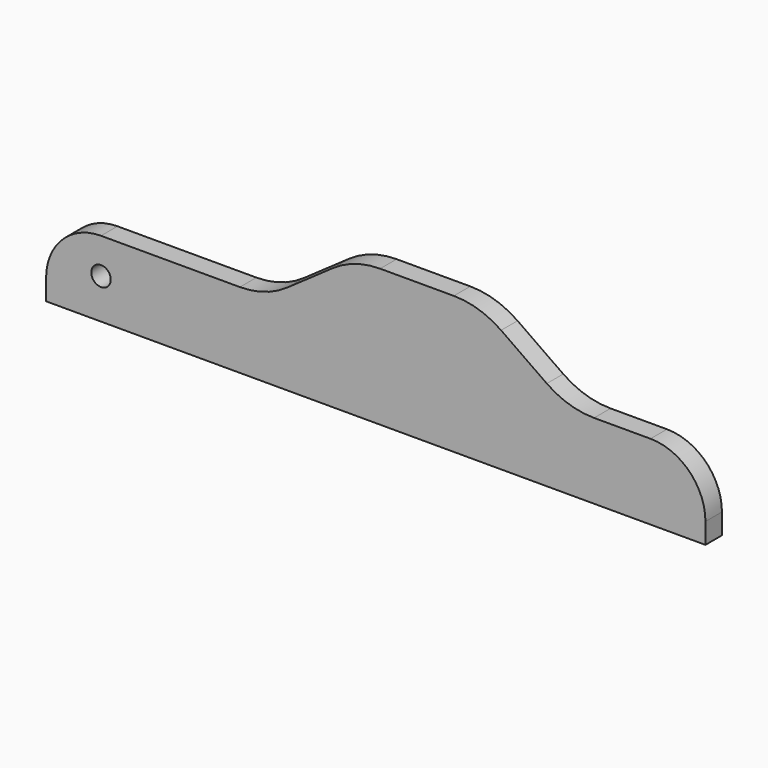
from build123d import *

# Parameters (mm, degrees)
F1_DEPTH = 19.05
F2_R     = 76.2
F3_R     = 50.8
F4_R     = 8.994508
F5_DEPTH = 25.4


with BuildPart() as f1:
    # F0 (on Front) → F1 (new body)
    with BuildSketch(Plane.XZ):
        Polygon((-342.9, 69.85), (-342.9, 0), (266.7, 0), (266.7, 69.85), (139.7, 69.85), (58.081341, 127), (-58.081341, 127), (-139.7, 69.85), align=None)
    extrude(amount=F1_DEPTH)

    # F2
    f2_edges = [f1.edges().sort_by_distance(p)[0] for p in [
        (139.7, -9.525, 69.85),
        (58.081341, -9.525, 127),
        (-58.081341, -9.525, 127),
        (-139.7, -9.525, 69.85),
    ]]
    fillet(f2_edges, radius=F2_R)

    # F3
    f3_edges = [f1.edges().sort_by_distance(p)[0] for p in [
        (266.7, -9.525, 69.85),
        (-342.9, -9.525, 69.85),
    ]]
    fillet(f3_edges, radius=F3_R)

    # F4 (on face) → F5 (cut)
    with BuildSketch(Plane.XZ.offset(19.05)):
        with Locations((-292.1, 37.072986)):
            Circle(F4_R)
    extrude(amount=-F5_DEPTH, mode=Mode.SUBTRACT)


solid = f1.part
